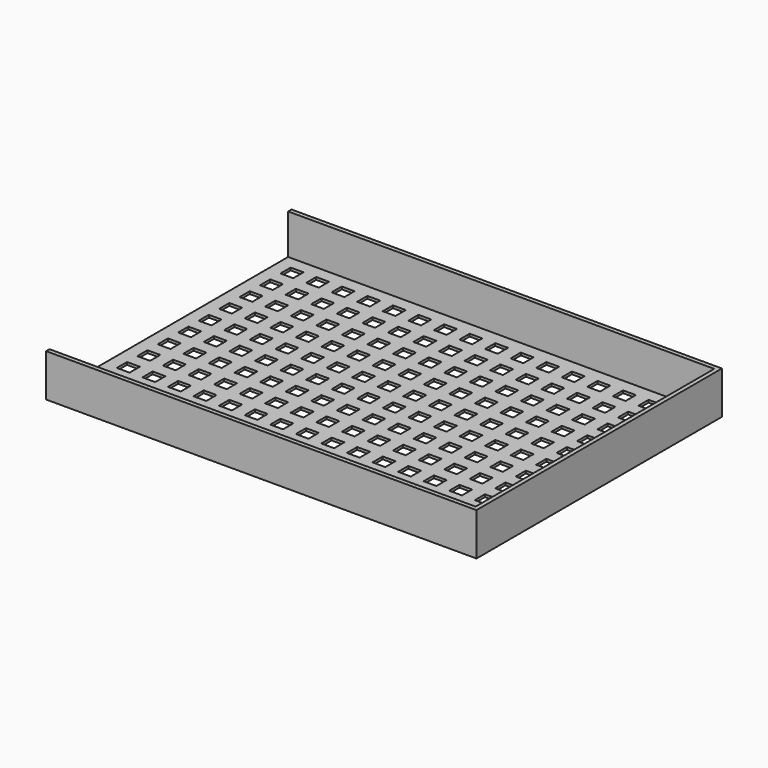
from build123d import *

# Parameters (mm, degrees)
F0_W     = 100
F0_H     = 70
F0_W_2   = 3
F0_H_2   = 3
F1_DEPTH = 0.6
F2_DEPTH = 10


with BuildPart() as f1:
    # F0 (on Top) → F1 (new body)
    with BuildSketch(Plane.XY):
        with Locations((-39.087973, -2.131689)):
            Rectangle(F0_W, F0_H)
        with Locations((-84.587973, -31.631689)):
            Rectangle(F0_W_2, F0_H_2, mode=Mode.SUBTRACT)
        with Locations((-78.587973, -31.631689)):
            Rectangle(F0_W_2, F0_H_2, mode=Mode.SUBTRACT)
        with Locations((-72.587973, -31.631689)):
            Rectangle(F0_W_2, F0_H_2, mode=Mode.SUBTRACT)
        with Locations((-66.587973, -31.631689)):
            Rectangle(F0_W_2, F0_H_2, mode=Mode.SUBTRACT)
        with Locations((-84.587973, -25.631689)):
            Rectangle(F0_W_2, F0_H_2, mode=Mode.SUBTRACT)
        with Locations((-78.587973, -25.631689)):
            Rectangle(F0_W_2, F0_H_2, mode=Mode.SUBTRACT)
        with Locations((-72.587973, -25.631689)):
            Rectangle(F0_W_2, F0_H_2, mode=Mode.SUBTRACT)
        with Locations((-66.587973, -25.631689)):
            Rectangle(F0_W_2, F0_H_2, mode=Mode.SUBTRACT)
        with Locations((-60.587973, -31.631689)):
            Rectangle(F0_W_2, F0_H_2, mode=Mode.SUBTRACT)
        with Locations((-54.587973, -31.631689)):
            Rectangle(F0_W_2, F0_H_2, mode=Mode.SUBTRACT)
        with Locations((-48.587973, -31.631689)):
            Rectangle(F0_W_2, F0_H_2, mode=Mode.SUBTRACT)
        with Locations((-42.587973, -31.631689)):
            Rectangle(F0_W_2, F0_H_2, mode=Mode.SUBTRACT)
        with Locations((-60.587973, -25.631689)):
            Rectangle(F0_W_2, F0_H_2, mode=Mode.SUBTRACT)
        with Locations((-54.587973, -25.631689)):
            Rectangle(F0_W_2, F0_H_2, mode=Mode.SUBTRACT)
        with Locations((-48.587973, -25.631689)):
            Rectangle(F0_W_2, F0_H_2, mode=Mode.SUBTRACT)
        with Locations((-42.587973, -25.631689)):
            Rectangle(F0_W_2, F0_H_2, mode=Mode.SUBTRACT)
        with Locations((-84.587973, -19.631689)):
            Rectangle(F0_W_2, F0_H_2, mode=Mode.SUBTRACT)
        with Locations((-78.587973, -19.631689)):
            Rectangle(F0_W_2, F0_H_2, mode=Mode.SUBTRACT)
        with Locations((-84.587973, -13.631689)):
            Rectangle(F0_W_2, F0_H_2, mode=Mode.SUBTRACT)
        with Locations((-78.587973, -13.631689)):
            Rectangle(F0_W_2, F0_H_2, mode=Mode.SUBTRACT)
        with Locations((-72.587973, -19.631689)):
            Rectangle(F0_W_2, F0_H_2, mode=Mode.SUBTRACT)
        with Locations((-66.587973, -19.631689)):
            Rectangle(F0_W_2, F0_H_2, mode=Mode.SUBTRACT)
        with Locations((-72.587973, -13.631689)):
            Rectangle(F0_W_2, F0_H_2, mode=Mode.SUBTRACT)
        with Locations((-66.587973, -13.631689)):
            Rectangle(F0_W_2, F0_H_2, mode=Mode.SUBTRACT)
        with Locations((-84.587973, -7.631689)):
            Rectangle(F0_W_2, F0_H_2, mode=Mode.SUBTRACT)
        with Locations((-78.587973, -7.631689)):
            Rectangle(F0_W_2, F0_H_2, mode=Mode.SUBTRACT)
        with Locations((-72.587973, -7.631689)):
            Rectangle(F0_W_2, F0_H_2, mode=Mode.SUBTRACT)
        with Locations((-66.587973, -7.631689)):
            Rectangle(F0_W_2, F0_H_2, mode=Mode.SUBTRACT)
        with Locations((-60.587973, -19.631689)):
            Rectangle(F0_W_2, F0_H_2, mode=Mode.SUBTRACT)
        with Locations((-54.587973, -19.631689)):
            Rectangle(F0_W_2, F0_H_2, mode=Mode.SUBTRACT)
        with Locations((-60.587973, -13.631689)):
            Rectangle(F0_W_2, F0_H_2, mode=Mode.SUBTRACT)
        with Locations((-54.587973, -13.631689)):
            Rectangle(F0_W_2, F0_H_2, mode=Mode.SUBTRACT)
        with Locations((-48.587973, -19.631689)):
            Rectangle(F0_W_2, F0_H_2, mode=Mode.SUBTRACT)
        with Locations((-42.587973, -19.631689)):
            Rectangle(F0_W_2, F0_H_2, mode=Mode.SUBTRACT)
        with Locations((-48.587973, -13.631689)):
            Rectangle(F0_W_2, F0_H_2, mode=Mode.SUBTRACT)
        with Locations((-42.587973, -13.631689)):
            Rectangle(F0_W_2, F0_H_2, mode=Mode.SUBTRACT)
        with Locations((-60.587973, -7.631689)):
            Rectangle(F0_W_2, F0_H_2, mode=Mode.SUBTRACT)
        with Locations((-54.587973, -7.631689)):
            Rectangle(F0_W_2, F0_H_2, mode=Mode.SUBTRACT)
        with Locations((-48.587973, -7.631689)):
            Rectangle(F0_W_2, F0_H_2, mode=Mode.SUBTRACT)
        with Locations((-42.587973, -7.631689)):
            Rectangle(F0_W_2, F0_H_2, mode=Mode.SUBTRACT)
        with Locations((-36.587973, -31.631689)):
            Rectangle(F0_W_2, F0_H_2, mode=Mode.SUBTRACT)
        with Locations((-30.587973, -31.631689)):
            Rectangle(F0_W_2, F0_H_2, mode=Mode.SUBTRACT)
        with Locations((-24.587973, -31.631689)):
            Rectangle(F0_W_2, F0_H_2, mode=Mode.SUBTRACT)
        with Locations((-18.587973, -31.631689)):
            Rectangle(F0_W_2, F0_H_2, mode=Mode.SUBTRACT)
        with Locations((-36.587973, -25.631689)):
            Rectangle(F0_W_2, F0_H_2, mode=Mode.SUBTRACT)
        with Locations((-30.587973, -25.631689)):
            Rectangle(F0_W_2, F0_H_2, mode=Mode.SUBTRACT)
        with Locations((-24.587973, -25.631689)):
            Rectangle(F0_W_2, F0_H_2, mode=Mode.SUBTRACT)
        with Locations((-18.587973, -25.631689)):
            Rectangle(F0_W_2, F0_H_2, mode=Mode.SUBTRACT)
        with Locations((-12.587973, -31.631689)):
            Rectangle(F0_W_2, F0_H_2, mode=Mode.SUBTRACT)
        with Locations((-6.587973, -31.631689)):
            Rectangle(F0_W_2, F0_H_2, mode=Mode.SUBTRACT)
        with Locations((-0.587973, -31.631689)):
            Rectangle(F0_W_2, F0_H_2, mode=Mode.SUBTRACT)
        with Locations((5.412027, -31.631689)):
            Rectangle(F0_W_2, F0_H_2, mode=Mode.SUBTRACT)
        with Locations((-12.587973, -25.631689)):
            Rectangle(F0_W_2, F0_H_2, mode=Mode.SUBTRACT)
        with Locations((-6.587973, -25.631689)):
            Rectangle(F0_W_2, F0_H_2, mode=Mode.SUBTRACT)
        with Locations((-0.587973, -25.631689)):
            Rectangle(F0_W_2, F0_H_2, mode=Mode.SUBTRACT)
        with Locations((5.412027, -25.631689)):
            Rectangle(F0_W_2, F0_H_2, mode=Mode.SUBTRACT)
        with Locations((-36.587973, -19.631689)):
            Rectangle(F0_W_2, F0_H_2, mode=Mode.SUBTRACT)
        with Locations((-30.587973, -19.631689)):
            Rectangle(F0_W_2, F0_H_2, mode=Mode.SUBTRACT)
        with Locations((-36.587973, -13.631689)):
            Rectangle(F0_W_2, F0_H_2, mode=Mode.SUBTRACT)
        with Locations((-30.587973, -13.631689)):
            Rectangle(F0_W_2, F0_H_2, mode=Mode.SUBTRACT)
        with Locations((-24.587973, -19.631689)):
            Rectangle(F0_W_2, F0_H_2, mode=Mode.SUBTRACT)
        with Locations((-18.587973, -19.631689)):
            Rectangle(F0_W_2, F0_H_2, mode=Mode.SUBTRACT)
        with Locations((-24.587973, -13.631689)):
            Rectangle(F0_W_2, F0_H_2, mode=Mode.SUBTRACT)
        with Locations((-18.587973, -13.631689)):
            Rectangle(F0_W_2, F0_H_2, mode=Mode.SUBTRACT)
        with Locations((-36.587973, -7.631689)):
            Rectangle(F0_W_2, F0_H_2, mode=Mode.SUBTRACT)
        with Locations((-30.587973, -7.631689)):
            Rectangle(F0_W_2, F0_H_2, mode=Mode.SUBTRACT)
        with Locations((-24.587973, -7.631689)):
            Rectangle(F0_W_2, F0_H_2, mode=Mode.SUBTRACT)
        with Locations((-18.587973, -7.631689)):
            Rectangle(F0_W_2, F0_H_2, mode=Mode.SUBTRACT)
        with Locations((-12.587973, -19.631689)):
            Rectangle(F0_W_2, F0_H_2, mode=Mode.SUBTRACT)
        with Locations((-6.587973, -19.631689)):
            Rectangle(F0_W_2, F0_H_2, mode=Mode.SUBTRACT)
        with Locations((-12.587973, -13.631689)):
            Rectangle(F0_W_2, F0_H_2, mode=Mode.SUBTRACT)
        with Locations((-6.587973, -13.631689)):
            Rectangle(F0_W_2, F0_H_2, mode=Mode.SUBTRACT)
        with Locations((-0.587973, -19.631689)):
            Rectangle(F0_W_2, F0_H_2, mode=Mode.SUBTRACT)
        with Locations((5.412027, -19.631689)):
            Rectangle(F0_W_2, F0_H_2, mode=Mode.SUBTRACT)
        with Locations((-0.587973, -13.631689)):
            Rectangle(F0_W_2, F0_H_2, mode=Mode.SUBTRACT)
        with Locations((5.412027, -13.631689)):
            Rectangle(F0_W_2, F0_H_2, mode=Mode.SUBTRACT)
        with Locations((-12.587973, -7.631689)):
            Rectangle(F0_W_2, F0_H_2, mode=Mode.SUBTRACT)
        with Locations((-6.587973, -7.631689)):
            Rectangle(F0_W_2, F0_H_2, mode=Mode.SUBTRACT)
        with Locations((-0.587973, -7.631689)):
            Rectangle(F0_W_2, F0_H_2, mode=Mode.SUBTRACT)
        with Locations((5.412027, -7.631689)):
            Rectangle(F0_W_2, F0_H_2, mode=Mode.SUBTRACT)
        with Locations((-84.587973, -1.631689)):
            Rectangle(F0_W_2, F0_H_2, mode=Mode.SUBTRACT)
        with Locations((-78.587973, -1.631689)):
            Rectangle(F0_W_2, F0_H_2, mode=Mode.SUBTRACT)
        with Locations((-84.587973, 4.368311)):
            Rectangle(F0_W_2, F0_H_2, mode=Mode.SUBTRACT)
        with Locations((-78.587973, 4.368311)):
            Rectangle(F0_W_2, F0_H_2, mode=Mode.SUBTRACT)
        with Locations((-72.587973, -1.631689)):
            Rectangle(F0_W_2, F0_H_2, mode=Mode.SUBTRACT)
        with Locations((-66.587973, -1.631689)):
            Rectangle(F0_W_2, F0_H_2, mode=Mode.SUBTRACT)
        with Locations((-72.587973, 4.368311)):
            Rectangle(F0_W_2, F0_H_2, mode=Mode.SUBTRACT)
        with Locations((-66.587973, 4.368311)):
            Rectangle(F0_W_2, F0_H_2, mode=Mode.SUBTRACT)
        with Locations((-84.587973, 10.368311)):
            Rectangle(F0_W_2, F0_H_2, mode=Mode.SUBTRACT)
        with Locations((-78.587973, 10.368311)):
            Rectangle(F0_W_2, F0_H_2, mode=Mode.SUBTRACT)
        with Locations((-72.587973, 10.368311)):
            Rectangle(F0_W_2, F0_H_2, mode=Mode.SUBTRACT)
        with Locations((-66.587973, 10.368311)):
            Rectangle(F0_W_2, F0_H_2, mode=Mode.SUBTRACT)
        with Locations((-60.587973, -1.631689)):
            Rectangle(F0_W_2, F0_H_2, mode=Mode.SUBTRACT)
        with Locations((-54.587973, -1.631689)):
            Rectangle(F0_W_2, F0_H_2, mode=Mode.SUBTRACT)
        with Locations((-60.587973, 4.368311)):
            Rectangle(F0_W_2, F0_H_2, mode=Mode.SUBTRACT)
        with Locations((-54.587973, 4.368311)):
            Rectangle(F0_W_2, F0_H_2, mode=Mode.SUBTRACT)
        with Locations((-48.587973, -1.631689)):
            Rectangle(F0_W_2, F0_H_2, mode=Mode.SUBTRACT)
        with Locations((-42.587973, -1.631689)):
            Rectangle(F0_W_2, F0_H_2, mode=Mode.SUBTRACT)
        with Locations((-48.587973, 4.368311)):
            Rectangle(F0_W_2, F0_H_2, mode=Mode.SUBTRACT)
        with Locations((-42.587973, 4.368311)):
            Rectangle(F0_W_2, F0_H_2, mode=Mode.SUBTRACT)
        with Locations((-60.587973, 10.368311)):
            Rectangle(F0_W_2, F0_H_2, mode=Mode.SUBTRACT)
        with Locations((-54.587973, 10.368311)):
            Rectangle(F0_W_2, F0_H_2, mode=Mode.SUBTRACT)
        with Locations((-48.587973, 10.368311)):
            Rectangle(F0_W_2, F0_H_2, mode=Mode.SUBTRACT)
        with Locations((-42.587973, 10.368311)):
            Rectangle(F0_W_2, F0_H_2, mode=Mode.SUBTRACT)
        with Locations((-84.587973, 16.368311)):
            Rectangle(F0_W_2, F0_H_2, mode=Mode.SUBTRACT)
        with Locations((-78.587973, 16.368311)):
            Rectangle(F0_W_2, F0_H_2, mode=Mode.SUBTRACT)
        with Locations((-84.587973, 22.368311)):
            Rectangle(F0_W_2, F0_H_2, mode=Mode.SUBTRACT)
        with Locations((-78.587973, 22.368311)):
            Rectangle(F0_W_2, F0_H_2, mode=Mode.SUBTRACT)
        with Locations((-72.587973, 16.368311)):
            Rectangle(F0_W_2, F0_H_2, mode=Mode.SUBTRACT)
        with Locations((-66.587973, 16.368311)):
            Rectangle(F0_W_2, F0_H_2, mode=Mode.SUBTRACT)
        with Locations((-72.587973, 22.368311)):
            Rectangle(F0_W_2, F0_H_2, mode=Mode.SUBTRACT)
        with Locations((-66.587973, 22.368311)):
            Rectangle(F0_W_2, F0_H_2, mode=Mode.SUBTRACT)
        with Locations((-84.587973, 28.368311)):
            Rectangle(F0_W_2, F0_H_2, mode=Mode.SUBTRACT)
        with Locations((-78.587973, 28.368311)):
            Rectangle(F0_W_2, F0_H_2, mode=Mode.SUBTRACT)
        with Locations((-72.587973, 28.368311)):
            Rectangle(F0_W_2, F0_H_2, mode=Mode.SUBTRACT)
        with Locations((-66.587973, 28.368311)):
            Rectangle(F0_W_2, F0_H_2, mode=Mode.SUBTRACT)
        with Locations((-60.587973, 16.368311)):
            Rectangle(F0_W_2, F0_H_2, mode=Mode.SUBTRACT)
        with Locations((-54.587973, 16.368311)):
            Rectangle(F0_W_2, F0_H_2, mode=Mode.SUBTRACT)
        with Locations((-60.587973, 22.368311)):
            Rectangle(F0_W_2, F0_H_2, mode=Mode.SUBTRACT)
        with Locations((-54.587973, 22.368311)):
            Rectangle(F0_W_2, F0_H_2, mode=Mode.SUBTRACT)
        with Locations((-48.587973, 16.368311)):
            Rectangle(F0_W_2, F0_H_2, mode=Mode.SUBTRACT)
        with Locations((-42.587973, 16.368311)):
            Rectangle(F0_W_2, F0_H_2, mode=Mode.SUBTRACT)
        with Locations((-48.587973, 22.368311)):
            Rectangle(F0_W_2, F0_H_2, mode=Mode.SUBTRACT)
        with Locations((-42.587973, 22.368311)):
            Rectangle(F0_W_2, F0_H_2, mode=Mode.SUBTRACT)
        with Locations((-60.587973, 28.368311)):
            Rectangle(F0_W_2, F0_H_2, mode=Mode.SUBTRACT)
        with Locations((-54.587973, 28.368311)):
            Rectangle(F0_W_2, F0_H_2, mode=Mode.SUBTRACT)
        with Locations((-48.587973, 28.368311)):
            Rectangle(F0_W_2, F0_H_2, mode=Mode.SUBTRACT)
        with Locations((-42.587973, 28.368311)):
            Rectangle(F0_W_2, F0_H_2, mode=Mode.SUBTRACT)
        with Locations((-36.587973, -1.631689)):
            Rectangle(F0_W_2, F0_H_2, mode=Mode.SUBTRACT)
        with Locations((-30.587973, -1.631689)):
            Rectangle(F0_W_2, F0_H_2, mode=Mode.SUBTRACT)
        with Locations((-36.587973, 4.368311)):
            Rectangle(F0_W_2, F0_H_2, mode=Mode.SUBTRACT)
        with Locations((-30.587973, 4.368311)):
            Rectangle(F0_W_2, F0_H_2, mode=Mode.SUBTRACT)
        with Locations((-24.587973, -1.631689)):
            Rectangle(F0_W_2, F0_H_2, mode=Mode.SUBTRACT)
        with Locations((-18.587973, -1.631689)):
            Rectangle(F0_W_2, F0_H_2, mode=Mode.SUBTRACT)
        with Locations((-24.587973, 4.368311)):
            Rectangle(F0_W_2, F0_H_2, mode=Mode.SUBTRACT)
        with Locations((-18.587973, 4.368311)):
            Rectangle(F0_W_2, F0_H_2, mode=Mode.SUBTRACT)
        with Locations((-36.587973, 10.368311)):
            Rectangle(F0_W_2, F0_H_2, mode=Mode.SUBTRACT)
        with Locations((-30.587973, 10.368311)):
            Rectangle(F0_W_2, F0_H_2, mode=Mode.SUBTRACT)
        with Locations((-24.587973, 10.368311)):
            Rectangle(F0_W_2, F0_H_2, mode=Mode.SUBTRACT)
        with Locations((-18.587973, 10.368311)):
            Rectangle(F0_W_2, F0_H_2, mode=Mode.SUBTRACT)
        with Locations((-12.587973, -1.631689)):
            Rectangle(F0_W_2, F0_H_2, mode=Mode.SUBTRACT)
        with Locations((-6.587973, -1.631689)):
            Rectangle(F0_W_2, F0_H_2, mode=Mode.SUBTRACT)
        with Locations((-12.587973, 4.368311)):
            Rectangle(F0_W_2, F0_H_2, mode=Mode.SUBTRACT)
        with Locations((-6.587973, 4.368311)):
            Rectangle(F0_W_2, F0_H_2, mode=Mode.SUBTRACT)
        with Locations((-0.587973, -1.631689)):
            Rectangle(F0_W_2, F0_H_2, mode=Mode.SUBTRACT)
        with Locations((5.412027, -1.631689)):
            Rectangle(F0_W_2, F0_H_2, mode=Mode.SUBTRACT)
        with Locations((-0.587973, 4.368311)):
            Rectangle(F0_W_2, F0_H_2, mode=Mode.SUBTRACT)
        with Locations((5.412027, 4.368311)):
            Rectangle(F0_W_2, F0_H_2, mode=Mode.SUBTRACT)
        with Locations((-12.587973, 10.368311)):
            Rectangle(F0_W_2, F0_H_2, mode=Mode.SUBTRACT)
        with Locations((-6.587973, 10.368311)):
            Rectangle(F0_W_2, F0_H_2, mode=Mode.SUBTRACT)
        with Locations((-0.587973, 10.368311)):
            Rectangle(F0_W_2, F0_H_2, mode=Mode.SUBTRACT)
        with Locations((5.412027, 10.368311)):
            Rectangle(F0_W_2, F0_H_2, mode=Mode.SUBTRACT)
        with Locations((-36.587973, 16.368311)):
            Rectangle(F0_W_2, F0_H_2, mode=Mode.SUBTRACT)
        with Locations((-30.587973, 16.368311)):
            Rectangle(F0_W_2, F0_H_2, mode=Mode.SUBTRACT)
        with Locations((-36.587973, 22.368311)):
            Rectangle(F0_W_2, F0_H_2, mode=Mode.SUBTRACT)
        with Locations((-30.587973, 22.368311)):
            Rectangle(F0_W_2, F0_H_2, mode=Mode.SUBTRACT)
        with Locations((-24.587973, 16.368311)):
            Rectangle(F0_W_2, F0_H_2, mode=Mode.SUBTRACT)
        with Locations((-18.587973, 16.368311)):
            Rectangle(F0_W_2, F0_H_2, mode=Mode.SUBTRACT)
        with Locations((-24.587973, 22.368311)):
            Rectangle(F0_W_2, F0_H_2, mode=Mode.SUBTRACT)
        with Locations((-18.587973, 22.368311)):
            Rectangle(F0_W_2, F0_H_2, mode=Mode.SUBTRACT)
        with Locations((-36.587973, 28.368311)):
            Rectangle(F0_W_2, F0_H_2, mode=Mode.SUBTRACT)
        with Locations((-30.587973, 28.368311)):
            Rectangle(F0_W_2, F0_H_2, mode=Mode.SUBTRACT)
        with Locations((-24.587973, 28.368311)):
            Rectangle(F0_W_2, F0_H_2, mode=Mode.SUBTRACT)
        with Locations((-18.587973, 28.368311)):
            Rectangle(F0_W_2, F0_H_2, mode=Mode.SUBTRACT)
        with Locations((-12.587973, 16.368311)):
            Rectangle(F0_W_2, F0_H_2, mode=Mode.SUBTRACT)
        with Locations((-6.587973, 16.368311)):
            Rectangle(F0_W_2, F0_H_2, mode=Mode.SUBTRACT)
        with Locations((-12.587973, 22.368311)):
            Rectangle(F0_W_2, F0_H_2, mode=Mode.SUBTRACT)
        with Locations((-6.587973, 22.368311)):
            Rectangle(F0_W_2, F0_H_2, mode=Mode.SUBTRACT)
        with Locations((-0.587973, 16.368311)):
            Rectangle(F0_W_2, F0_H_2, mode=Mode.SUBTRACT)
        with Locations((5.412027, 16.368311)):
            Rectangle(F0_W_2, F0_H_2, mode=Mode.SUBTRACT)
        with Locations((-0.587973, 22.368311)):
            Rectangle(F0_W_2, F0_H_2, mode=Mode.SUBTRACT)
        with Locations((5.412027, 22.368311)):
            Rectangle(F0_W_2, F0_H_2, mode=Mode.SUBTRACT)
        with Locations((-12.587973, 28.368311)):
            Rectangle(F0_W_2, F0_H_2, mode=Mode.SUBTRACT)
        with Locations((-6.587973, 28.368311)):
            Rectangle(F0_W_2, F0_H_2, mode=Mode.SUBTRACT)
        with Locations((-0.587973, 28.368311)):
            Rectangle(F0_W_2, F0_H_2, mode=Mode.SUBTRACT)
        with Locations((5.412027, 28.368311)):
            Rectangle(F0_W_2, F0_H_2, mode=Mode.SUBTRACT)
    extrude(amount=F1_DEPTH)

    # F0 (on Top) → F2 (join)
    with BuildSketch(Plane.XY):
        Polygon((-89.087973, 33.868311), (-89.087973, 32.868311), (10.912027, 32.868311), (10.912027, -37.131689), (-89.087973, -37.131689), (-89.087973, -38.131689), (11.912027, -38.131689), (11.912027, 33.868311), align=None)
    extrude(amount=F2_DEPTH)


solid = f1.part
